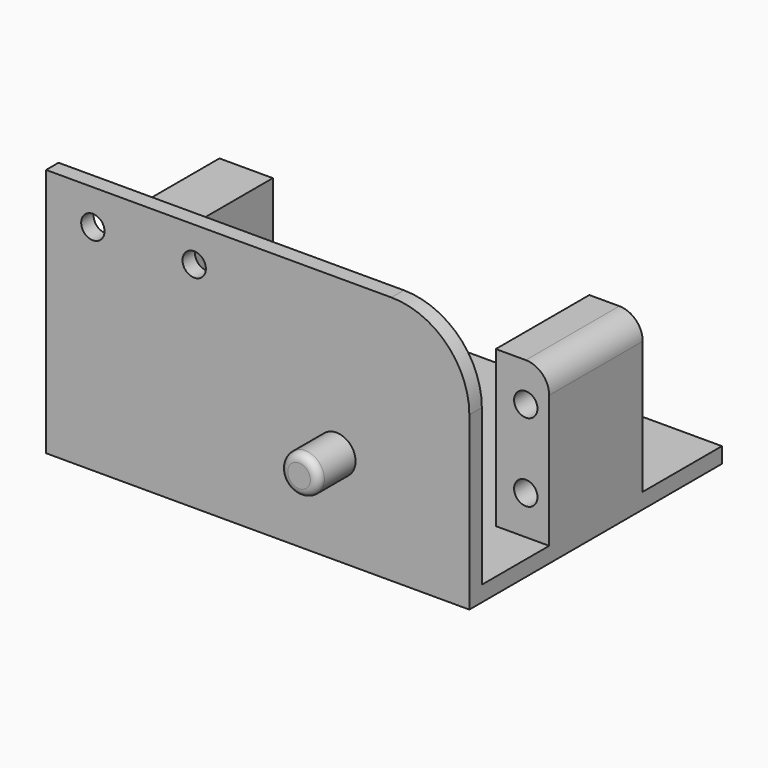
from build123d import *

# Parameters (mm, degrees)
SKETCH_W        = 54.3
SKETCH_H        = 38.5
PAD_DEPTH       = 2
SKETCH001_W     = 6.85
SKETCH001_H     = 15
PAD001_DEPTH    = 20
SKETCH002_R     = 1.5
POCKET_DEPTH    = 15
PAD002_DEPTH    = 2
FILLET_R        = 3
SKETCH004_R     = 2.45
PAD003_DEPTH    = 6
FILLET001_R     = 1
SKETCH005_R     = 1.5
POCKET001_DEPTH = 5


with BuildPart() as part:
    # Sketch → Pad (new body)
    with BuildSketch(Plane.XY):
        Rectangle(SKETCH_W, SKETCH_H)
    extrude(amount=PAD_DEPTH)

    # Sketch001 (on Face6 of Pad) → Pad001 (join)
    with BuildSketch(Plane.XY.offset(2)):
        with Locations((23.725, -0.95)):
            Rectangle(SKETCH001_W, SKETCH001_H)
        with Locations((-23.725, -0.95)):
            Rectangle(SKETCH001_W, SKETCH001_H)
    extrude(amount=PAD001_DEPTH)

    # Sketch002 (on Face11 of Pad001) → Pocket (cut)
    with BuildSketch(Plane.XZ.offset(8.45)):
        with Locations((24.15, 17)):
            Circle(SKETCH002_R)
        with Locations((24.15, 7)):
            Circle(SKETCH002_R)
        with Locations((-24.15, 17)):
            Circle(SKETCH002_R)
        with Locations((-24.15, 7)):
            Circle(SKETCH002_R)
    extrude(amount=-POCKET_DEPTH, mode=Mode.SUBTRACT)

    # Sketch003 (on Face6 of Pocket) → Pad002 (join)
    with BuildSketch(Plane.XZ.offset(19.25)):
        with BuildLine():
            Line((-27.15, 0), (27.15, 0))
            Line((27.15, 0), (27.15, 22))
            ThreePointArc((27.15, 22), (24.221068, 29.071068), (17.15, 32))
            Line((17.15, 32), (-27.15, 32))
            Line((-27.15, 32), (-27.15, 0))
        make_face()
    extrude(amount=PAD002_DEPTH)

    # Fillet
    fillet_edges = [part.edges().sort_by_distance(p)[0] for p in [
        (27.15, -0.95, 22),
    ]]
    fillet(fillet_edges, radius=FILLET_R)

    # Sketch004 (on Face21 of Fillet) → Pad003 (join)
    with BuildSketch(Plane.XZ.offset(21.25)):
        with Locations((10.1, 12)):
            Circle(SKETCH004_R)
    extrude(amount=PAD003_DEPTH)

    # Fillet001
    fillet001_edges = [part.edges().sort_by_distance(p)[0] for p in [
        (7.65, -27.25, 12),
    ]]
    fillet(fillet001_edges, radius=FILLET001_R)

    # Sketch005 (on Face3 of Fillet001) → Pocket001 (cut)
    with BuildSketch(Plane.XZ.offset(21.25)):
        with Locations((-21.15, 27.5)):
            Circle(SKETCH005_R)
        with Locations((-8.15, 27.5)):
            Circle(SKETCH005_R)
    extrude(amount=-POCKET001_DEPTH, mode=Mode.SUBTRACT)


solid = part.part
